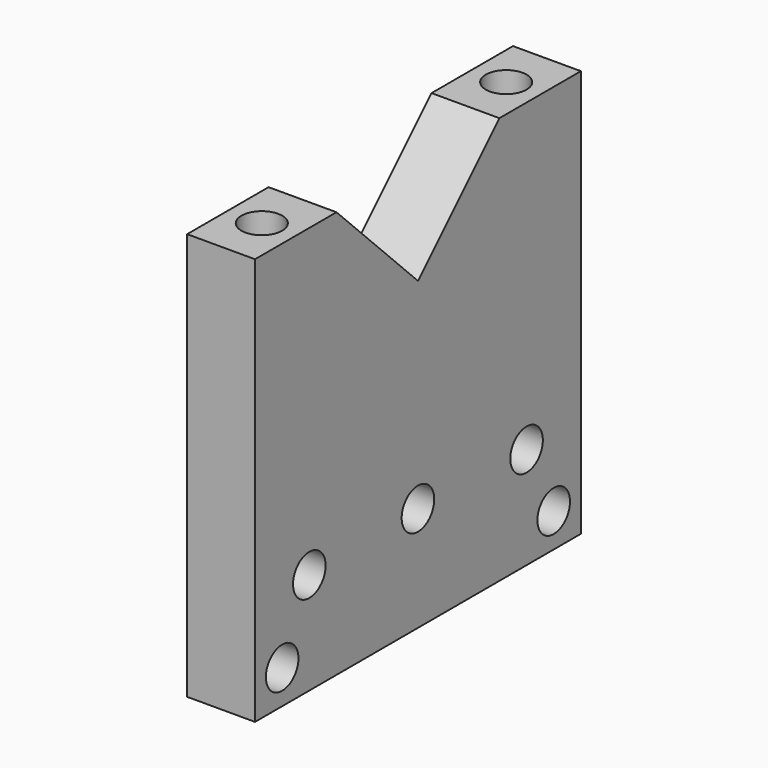
from build123d import *

# Parameters (mm, degrees)
F0_R     = 3
F1_DEPTH = 10
F2_R     = 3
F3_R     = 3
F4_DEPTH = 8


with BuildPart() as f1:
    # F0 (on Right) → F1 (new body)
    with BuildSketch(Plane.YZ):
        Polygon((-30, 55.084509), (-30, -4.915491), (30, -4.915491), (30, 55.084509), (15, 55.084509), (0, 40.084509), (-15, 55.084509), align=None)
        with Locations((-25, 0.084509)):
            Circle(F0_R, mode=Mode.SUBTRACT)
        with Locations((-20, 10.084509)):
            Circle(F0_R, mode=Mode.SUBTRACT)
        with Locations((25, 0.084509)):
            Circle(F0_R, mode=Mode.SUBTRACT)
        with Locations((0, 10.540983)):
            Circle(F0_R, mode=Mode.SUBTRACT)
        with Locations((20, 10.084509)):
            Circle(F0_R, mode=Mode.SUBTRACT)
    extrude(amount=F1_DEPTH)

    # F2 (on face) + F3 (on face) → F4 (cut)
    with BuildSketch(Plane.XY.offset(55.084509)):
        with Locations((5, 22.5)):
            Circle(F2_R)
    with BuildSketch(Plane.XY.offset(55.084509)):
        with Locations((5, -22.5)):
            Circle(F3_R)
    extrude(amount=-F4_DEPTH, mode=Mode.SUBTRACT)


solid = f1.part
